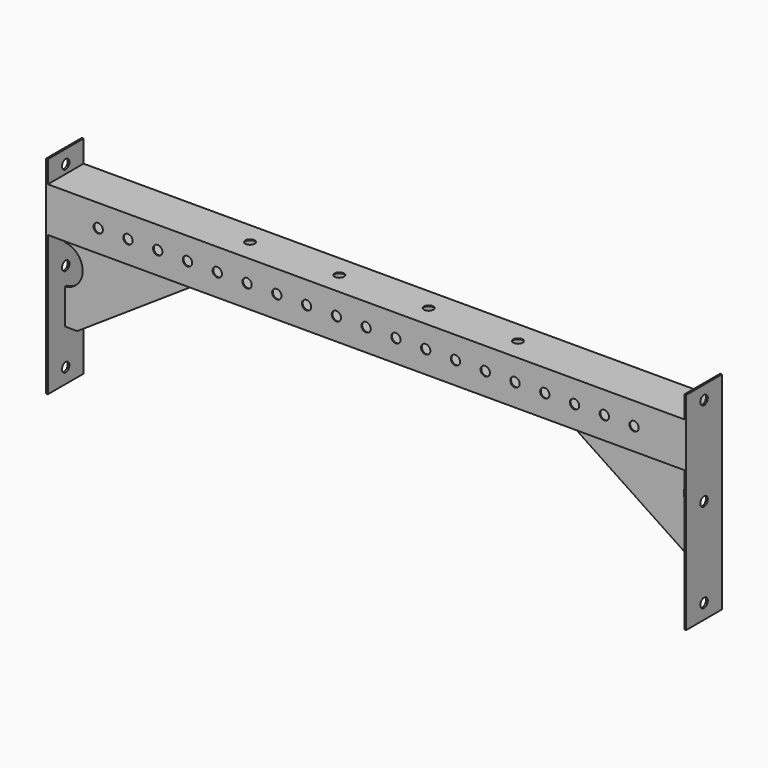
from build123d import *

# Parameters (mm, degrees)
F0_W       = 76.2
F0_H       = 76.2
F0_W_2     = 73.152
F0_H_2     = 73.152
F1_DEPTH   = 1092.2
F6_D       = 15.875
F6_ON_F5_D = 15.875
F8_DEPTH   = 1.524
F9_DEPTH   = 1.524
F10_W      = 76.2
F10_H      = 353.2152473927
F10_R      = 7.9375
F11_DEPTH  = 3.048


with BuildPart() as f1:
    # F0 (on Right) → F1 (new body)
    with BuildSketch(Plane.YZ):
        Rectangle(F0_W, F0_H)
        Rectangle(F0_W_2, F0_H_2, mode=Mode.SUBTRACT)
    extrude(amount=F1_DEPTH)

    # F6 (through all)
    with Locations(Plane.XZ.offset(76.2)):
        with Locations((38.1, 0), (88.9, 0), (139.7, 0), (190.5, 0), (241.3, 0), (292.1, 0), (342.9, 0), (393.7, 0), (444.5, 0), (495.3, 0), (546.1, 0), (596.9, 0), (647.7, 0), (698.5, 0), (749.3, 0), (800.1, 0), (850.9, 0), (901.7, 0), (952.5, 0), (1003.3, 0)):
            Hole(F6_D / 2)

    # F6 on F5 (through all)
    with Locations(Plane.XY.offset(76.2)):
        with Locations((317.5, 0), (469.9, 0), (622.3, 0), (774.7, 0), (927.1, 0)):
            Hole(F6_ON_F5_D / 2)

    # F7 (on Front) → F8 (join)
    with BuildSketch(Plane.XZ):
        with BuildLine():
            Line((228.6, -38.1), (0, -38.1))
            Line((0, -38.1), (0, -63.9625564218))
            ThreePointArc((0, -63.9625564218), (33.2066453993, -97.1692018211), (0, -130.3758472204))
            Line((0, -130.3758472204), (0, -190.5))
            Line((0, -190.5), (23.9939857274, -190.5))
            Line((23.9939857274, -190.5), (228.6, -54.1826970875))
            Line((228.6, -54.1826970875), (228.6, -38.1))
        make_face()
    extrude(amount=F8_DEPTH)

    # F7 (on Front) → F9 (join)
    with BuildSketch(Plane.XZ):
        with BuildLine():
            Line((228.6, -38.1), (0, -38.1))
            Line((0, -38.1), (0, -63.9625564218))
            ThreePointArc((0, -63.9625564218), (33.2066453993, -97.1692018211), (0, -130.3758472204))
            Line((0, -130.3758472204), (0, -190.5))
            Line((0, -190.5), (23.9939857274, -190.5))
            Line((23.9939857274, -190.5), (228.6, -54.1826970875))
            Line((228.6, -54.1826970875), (228.6, -38.1))
        make_face()
    extrude(amount=-F9_DEPTH)

    # F10 (on Right) → F11 (join)
    with BuildSketch(Plane.YZ):
        with Locations((0, -100.8058041334)):
            Rectangle(F10_W, F10_H)
        with Locations((0, -252.0134278297)):
            Circle(F10_R, mode=Mode.SUBTRACT)
        with Locations((0, -99.6134278297)):
            Circle(F10_R, mode=Mode.SUBTRACT)
        with Locations((0, 52.7865721703)):
            Circle(F10_R, mode=Mode.SUBTRACT)
    extrude(amount=F11_DEPTH)

    # F13: F1 across plane


with BuildPart() as f1_1:
    add(f1.part)
    add(f1.part.mirror(Plane.YZ.offset(546.1)))


solid = f1_1.part
